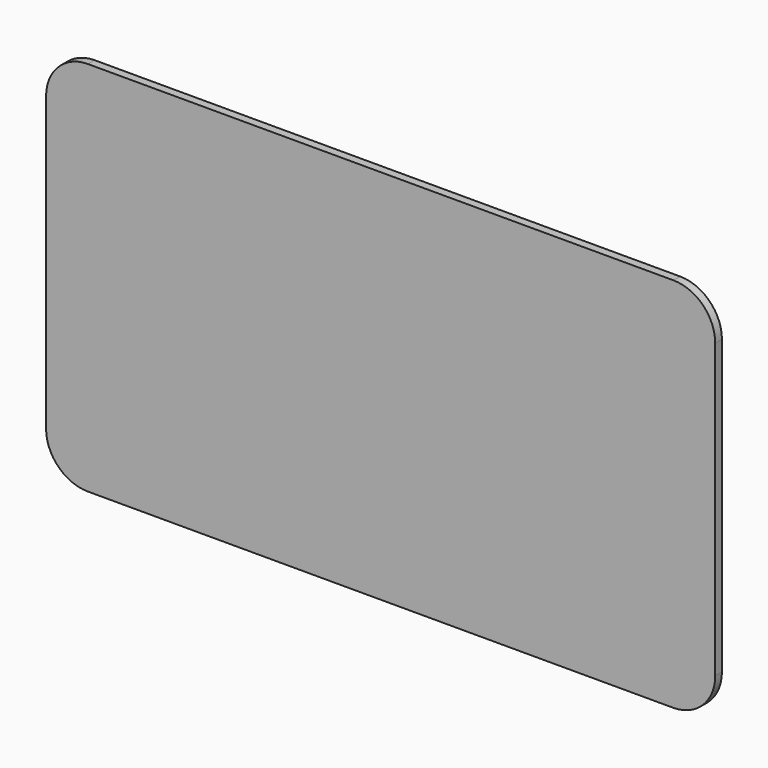
from build123d import *

# Parameters (mm, degrees)
F1_DEPTH = 0.5


with BuildPart() as f1:
    # F0 (on Front) → F1 (new body, symmetric)
    with BuildSketch(Plane.XZ):
        with BuildLine():
            ThreePointArc((5, 5), (1.464466, 3.535534), (0, 0))
            Line((0, 0), (80, 0))
            ThreePointArc((80, 0), (78.535534, 3.535534), (75, 5))
            Line((75, 5), (5, 5))
        make_face()
        with BuildLine():
            Line((80, 0), (0, 0))
            Line((0, 0), (0, -35))
            ThreePointArc((0, -35), (1.464466, -38.535534), (5, -40))
            Line((5, -40), (75, -40))
            ThreePointArc((75, -40), (78.535534, -38.535534), (80, -35))
            Line((80, -35), (80, 0))
        make_face()
    extrude(amount=F1_DEPTH, both=True)


solid = f1.part
